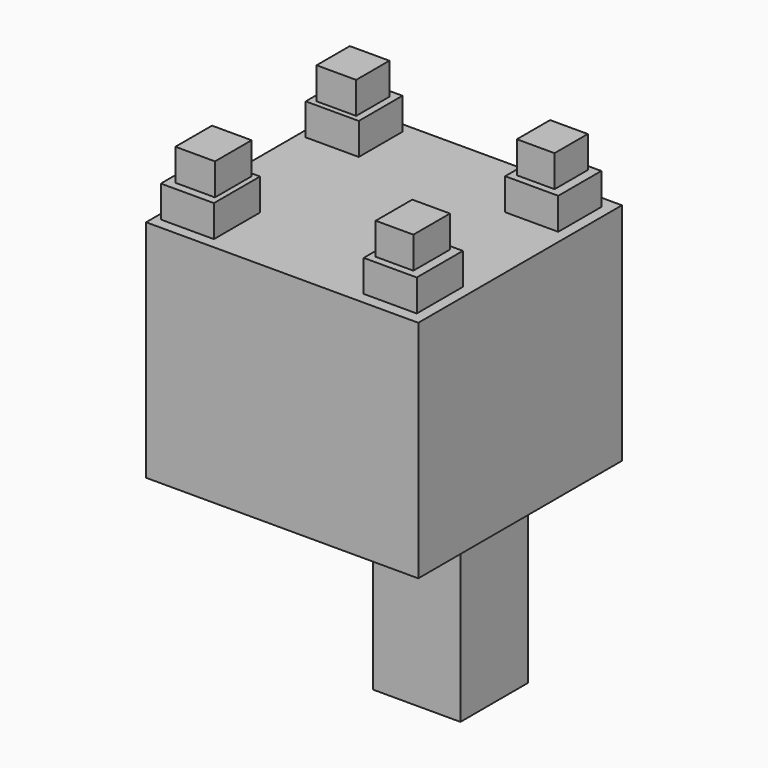
from build123d import *

# Parameters (mm, degrees)
F0_W     = 10.149051
F0_H     = 11.725604
F0_W_2   = 9.656384
F0_H_2   = 10.641724
F1_DEPTH = 16.256
F2_W     = 13.597761
F2_H     = 13.794825
F2_H_2   = 14.780173
F2_W_2   = 13.597758
F2_H_3   = 13.9919
F3_DEPTH = 8.128
F4_W     = 69.762415
F4_H     = 65.229826
F5_DEPTH = 57.658
F6_W     = 22.465862
F6_H     = 21.677583
F7_DEPTH = 115.57


with BuildPart() as f1:
    # F0 (on Top) → F1 (new body)
    with BuildSketch(Plane.XY):
        with Locations((5.074526, 5.862802)):
            Rectangle(F0_W, F0_H)
        with Locations((56.164656, 5.862802)):
            Rectangle(F0_W_2, F0_H)
        with Locations((56.164656, 50.548192)):
            Rectangle(F0_W_2, F0_H_2)
        with Locations((5.074526, 50.548192)):
            Rectangle(F0_W, F0_H_2)
    extrude(amount=F1_DEPTH)


with BuildPart() as f3:
    # F2 (on Top) → F3 (new body)
    with BuildSketch(Plane.XY):
        with Locations((56.558793, 50.35112)):
            Rectangle(F2_W, F2_H)
        with Locations((56.558793, 5.517932)):
            Rectangle(F2_W, F2_H_2)
        with Locations((4.729655, 5.320862)):
            Rectangle(F2_W, F2_H_2)
        with Locations((5.123792, 50.843794)):
            Rectangle(F2_W_2, F2_H_3)
    extrude(amount=F3_DEPTH)


with BuildPart() as f5:
    # F4 (on Top) → F5 (new body)
    with BuildSketch(Plane.XY):
        with Locations((31.23543, 27.786724)):
            Rectangle(F4_W, F4_H)
    extrude(amount=-F5_DEPTH)

    # F6 (on Top) → F7 (join)
    with BuildSketch(Plane.XY):
        with Locations((30.841295, 49.562845)):
            Rectangle(F6_W, F6_H)
    extrude(amount=-F7_DEPTH)


solid = Compound([f1.part, f3.part, f5.part])
